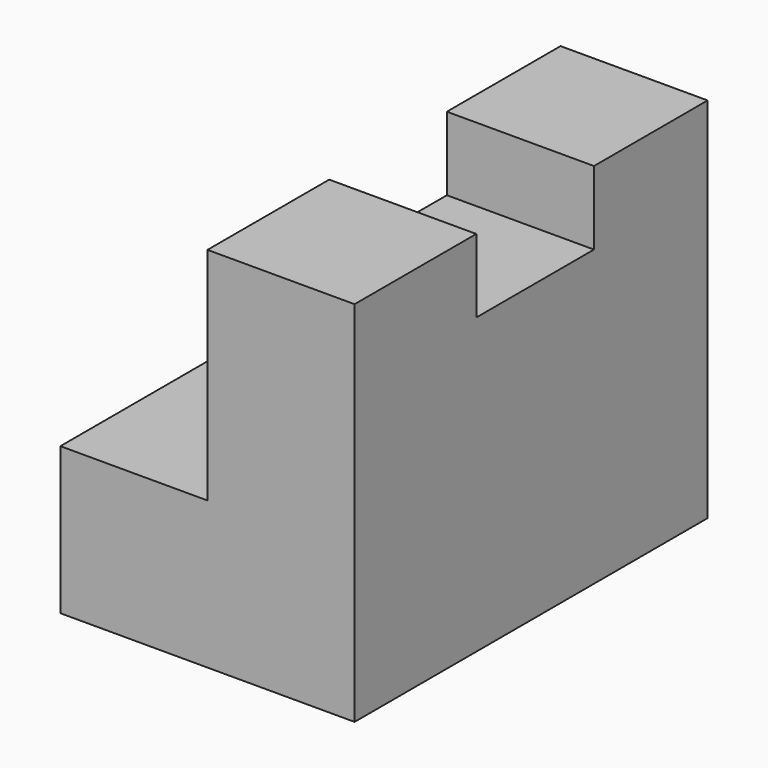
from build123d import *

# Parameters (mm, degrees)
F1_DEPTH = 38.1
F2_W     = 12.7
F2_H     = 6.35
F3_DEPTH = 12.7


with BuildPart() as f1:
    # F0 (on Front) → F1 (new body)
    with BuildSketch(Plane.XZ):
        Polygon((0, 12.7), (0, 0), (25.4, 0), (25.4, 31.75), (12.7, 31.75), (12.7, 12.7), align=None)
    extrude(amount=F1_DEPTH)

    # F2 (on face) → F3 (cut)
    with BuildSketch(Plane(origin=(12.7, 0, 0), x_dir=(0, -1, 0), z_dir=(-1, 0, 0))):
        with Locations((18.615348, 28.575)):
            Rectangle(F2_W, F2_H)
    extrude(amount=-F3_DEPTH, mode=Mode.SUBTRACT)


solid = f1.part
